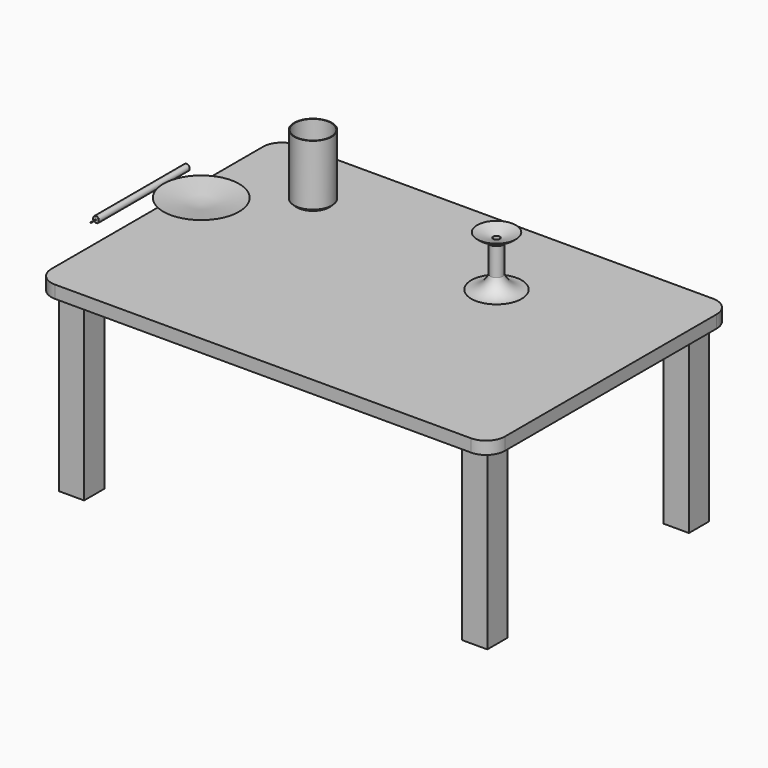
from build123d import *

# Parameters (mm, degrees)
F0_W      = 101.6
F0_H      = 101.6
F1_DEPTH  = 50.8
F2_DEPTH  = 711.2
F3_W      = 2.54
F3_H      = 215.9
F5_SIZE   = 10.16
F8_R      = 12.7
F8_R_2    = 1.27
F9_DEPTH  = 457.2
F10_DEPTH = 25.4
F11_R     = 2.54
F12_W     = 25.4
F12_H     = 115.9687861614
F14_R     = 12.7
F15_DEPTH = 101.6


with BuildPart() as f1:
    # F0 (on Top) → F1 (new body)
    with BuildSketch(Plane.XY):
        with BuildLine():
            Line((838.2, 609.6), (-838.2, 609.6))
            ThreePointArc((-838.2, 609.6), (-892.0815367264, 587.2815367264), (-914.4, 533.4))
            Line((-914.4, 533.4), (-914.4, -533.4))
            ThreePointArc((-914.4, -533.4), (-892.0815367264, -587.2815367264), (-838.2, -609.6))
            Line((-838.2, -609.6), (838.2, -609.6))
            ThreePointArc((838.2, -609.6), (892.0815367264, -587.2815367264), (914.4, -533.4))
            Line((914.4, -533.4), (914.4, 533.4))
            ThreePointArc((914.4, 533.4), (892.0815367264, 587.2815367264), (838.2, 609.6))
        make_face()
        with Locations((-812.8, -508)):
            Rectangle(F0_W, F0_H, mode=Mode.SUBTRACT)
        with Locations((812.8, -508)):
            Rectangle(F0_W, F0_H, mode=Mode.SUBTRACT)
        with Locations((-812.8, 508)):
            Rectangle(F0_W, F0_H, mode=Mode.SUBTRACT)
        with Locations((812.8, 508)):
            Rectangle(F0_W, F0_H, mode=Mode.SUBTRACT)
        with Locations((-812.8, -508)):
            Rectangle(F0_W, F0_H)
        with Locations((812.8, -508)):
            Rectangle(F0_W, F0_H)
        with Locations((812.8, 508)):
            Rectangle(F0_W, F0_H)
        with Locations((-812.8, 508)):
            Rectangle(F0_W, F0_H)
    extrude(amount=F1_DEPTH)

    # F0 (on Top) → F2 (join)
    with BuildSketch(Plane.XY):
        with Locations((-812.8, -508)):
            Rectangle(F0_W, F0_H)
        with Locations((-812.8, 508)):
            Rectangle(F0_W, F0_H)
        with Locations((812.8, 508)):
            Rectangle(F0_W, F0_H)
        with Locations((812.8, -508)):
            Rectangle(F0_W, F0_H)
    extrude(amount=-F2_DEPTH)


with BuildPart() as f4:
    # F3 (on Front) → F4 (revolve)
    with BuildSketch(Plane.XZ):
        Polygon((-286.3245010376, 316.2632285118), (-286.3245010376, 278.1632285118), (-210.1245010376, 278.1632285118), (-210.1245010376, 316.2632285118), (-212.6645010376, 316.2632285118), align=None)
        with Locations((-211.3945010376, 424.2132285118)):
            Rectangle(F3_W, F3_H)
    revolve(axis=Axis((-286.3245010376, 0, 405.1632285118), (0, 0, 1)))

    # F5
    f5_edges = [f4.edges().sort_by_distance(p)[0] for p in [
        (-362.524501, 0, 278.163229),
    ]]
    chamfer(f5_edges, length=F5_SIZE)


with BuildPart() as f7:
    # F6 (on Front) → F7 (revolve)
    with BuildSketch(Plane.XZ):
        Polygon((-787.6298852921, 117.0304474873), (-736.8298852921, 117.0304474873), (-736.8298852921, 119.5704474873), (-889.2298852921, 144.2540854383), align=None)
    revolve(axis=Axis((-736.8298852921, 0, 187.9355122422), (0, 0, 1)))


with BuildPart() as f9:
    # F8 (on Front) → F9 (new body)
    with BuildSketch(Plane.XZ):
        with Locations((-1161.6646051407, -71.9066634774)):
            Circle(F8_R)
        with Locations((-1161.6646051407, -71.9066634774)):
            Circle(F8_R_2, mode=Mode.SUBTRACT)
        with Locations((-1161.6646051407, -71.9066634774)):
            Circle(F8_R_2)
    extrude(amount=-F9_DEPTH)

    # F8 (on Front) → F10 (join)
    with BuildSketch(Plane.XZ):
        with Locations((-1161.6646051407, -71.9066634774)):
            Circle(F8_R_2)
    extrude(amount=F10_DEPTH)

    # F11
    f11_edges = [f9.edges().sort_by_distance(p)[0] for p in [
        (-1174.364605, 0, -71.906663),
    ]]
    fillet(f11_edges, radius=F11_R)


with BuildPart() as f13:
    # F12 (on Front) → F13 (revolve)
    with BuildSketch(Plane.XZ):
        Polygon((428.1756336873, 376.7006152139), (453.5756336873, 376.7006152139), (453.5756336873, 389.4006152139), (437.0656336873, 389.4006152139), (420.5556336873, 389.4006152139), (420.5556336873, 376.7006152139), align=None)
        with Locations((440.8756336873, 318.7162221332)):
            Rectangle(F12_W, F12_H)
        with BuildLine():
            Line((351.9756336873, 205.7550829578), (453.5756336873, 205.7550829578))
            Line((453.5756336873, 205.7550829578), (453.5756336873, 260.7318290524))
            Line((453.5756336873, 260.7318290524), (428.1756336873, 260.7318290524))
            ThreePointArc((428.1756336873, 260.7318290524), (398.9567006482, 220.9339369722), (351.9756336873, 205.7550829578))
        make_face()
        with BuildLine():
            Line((420.5556336873, 389.4006152139), (437.0656336873, 389.4006152139))
            Line((437.0656336873, 389.4006152139), (375.645477209, 408.9550829578))
            ThreePointArc((375.645477209, 408.9550829578), (396.0643119403, 394.5012700165), (420.5556336873, 389.4006152139))
        make_face()
    revolve(axis=Axis((453.5756336873, 0, 307.3550829578), (0, 0, 1)))

    # F14 (on face) → F15 (cut)
    with BuildSketch(Plane.XY.offset(389.4006152139)):
        with Locations((453.5756336873, 0)):
            Circle(F14_R)
    extrude(amount=-F15_DEPTH, mode=Mode.SUBTRACT)


solid = Compound([f1.part, f4.part, f7.part, f9.part, f13.part])
